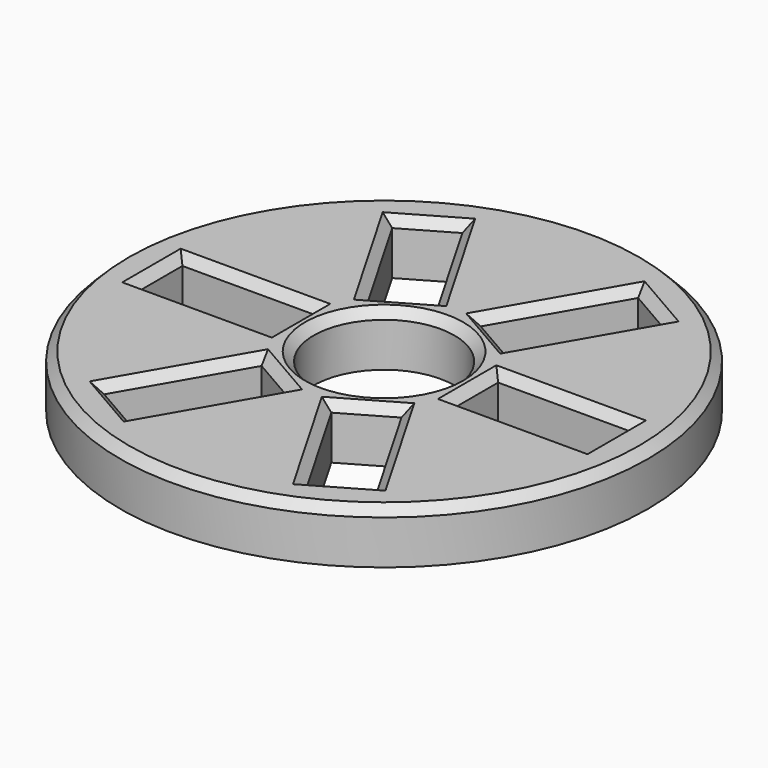
from build123d import *

# Parameters (mm, degrees)
F0_R     = 47.625
F0_R_2   = 12.7
F1_DEPTH = 9.525
F2_W     = 23.8125
F2_H     = 10
F3_DEPTH = 9.526
F4_SIZE  = 1.5875


with BuildPart() as f1:
    # F0 (on Top) → F1 (new body)
    with BuildSketch(Plane.XY):
        Circle(F0_R)
        Circle(F0_R_2, mode=Mode.SUBTRACT)
    extrude(amount=F1_DEPTH)

    # F2 (on face) → F3 (cut, through all)
    with BuildSketch(Plane.XY.offset(9.525)):
        with Locations((-28.479498, 0)):
            Rectangle(F2_W, F2_H)
        Polygon((-12.616751, 11.852853), (-3.956497, 16.852853), (-15.862747, 37.475083), (-24.523001, 32.475083), align=None)
        Polygon((3.956497, 16.852853), (12.616751, 11.852853), (24.523001, 32.475083), (15.862747, 37.475083), align=None)
        with Locations((28.479498, 0)):
            Rectangle(F2_W, F2_H)
        Polygon((12.616751, -11.852853), (3.956497, -16.852853), (15.862747, -37.475083), (24.523001, -32.475083), align=None)
        Polygon((-3.956497, -16.852853), (-12.616751, -11.852853), (-24.523001, -32.475083), (-15.862747, -37.475083), align=None)
    extrude(amount=-F3_DEPTH, mode=Mode.SUBTRACT)

    # F4
    f4_edges = [f1.edges().sort_by_distance(p)[0] for p in [
        (-28.479498, 5, 9.525),
        (-40.385748, 0, 9.525),
        (-28.479498, -5, 9.525),
        (-16.573248, 0, 9.525),
        (-12.7, 0, 9.525),
        (-8.286624, 14.352853, 9.525),
        (-18.569876, 22.163968, 9.525),
        (-9.909622, 27.163968, 9.525),
        (-20.192874, 34.975083, 9.525),
        (9.909622, 27.163968, 9.525),
        (20.192874, 34.975083, 9.525),
        (8.286624, 14.352853, 9.525),
        (18.569876, 22.163968, 9.525),
        (16.573248, 0, 9.525),
        (28.479498, 5, 9.525),
        (40.385748, 0, 9.525),
        (28.479498, -5, 9.525),
        (18.569876, -22.163968, 9.525),
        (8.286624, -14.352853, 9.525),
        (9.909622, -27.163968, 9.525),
        (20.192874, -34.975083, 9.525),
        (-9.909622, -27.163968, 9.525),
        (-20.192874, -34.975083, 9.525),
        (-18.569876, -22.163968, 9.525),
        (-8.286624, -14.352853, 9.525),
        (-47.625, 0, 9.525),
    ]]
    chamfer(f4_edges, length=F4_SIZE)


solid = f1.part
